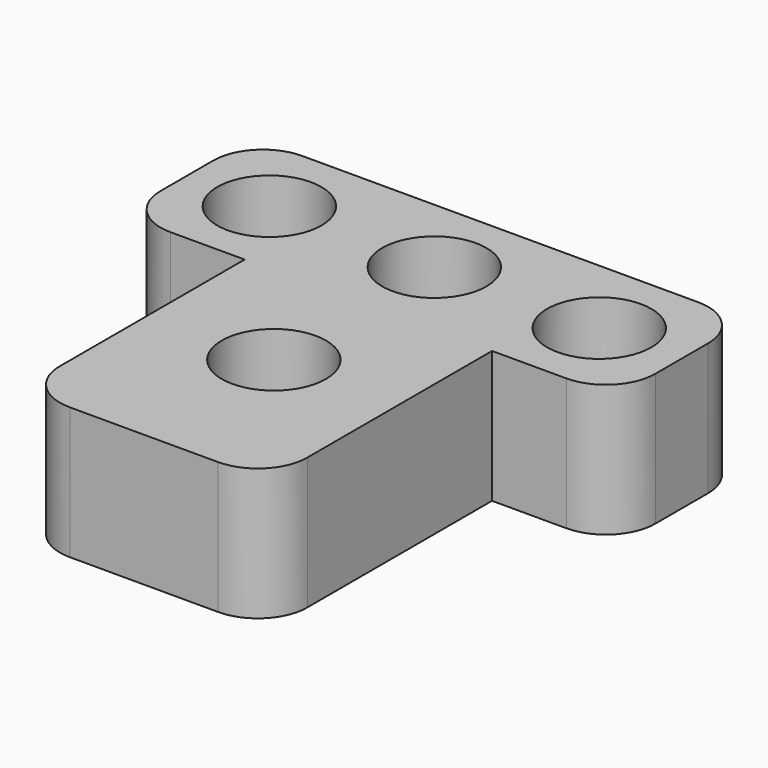
from build123d import *

# Parameters (mm, degrees)
F0_R     = 4.0132
F0_W     = 19.05
F0_H     = 21.59
F1_DEPTH = 10.16
F2_R     = 3.81


with BuildPart() as f1:
    # F0 (on Top) → F1 (new body)
    with BuildSketch(Plane.XY):
        Polygon((9.525, -6.35), (19.05, -6.35), (19.05, 6.35), (-19.05, 6.35), (-19.05, -6.35), (-9.525, -6.35), align=None)
        with Locations((-12.7, 0)):
            Circle(F0_R, mode=Mode.SUBTRACT)
        Circle(F0_R, mode=Mode.SUBTRACT)
        with Locations((12.7, 0)):
            Circle(F0_R, mode=Mode.SUBTRACT)
        with Locations((0, -17.145)):
            Rectangle(F0_W, F0_H)
        with Locations((0, -15.4432)):
            Circle(F0_R, mode=Mode.SUBTRACT)
    extrude(amount=F1_DEPTH)

    # F2
    f2_edges = [f1.edges().sort_by_distance(p)[0] for p in [
        (-9.525, -27.94, 5.08),
        (9.525, -27.94, 5.08),
        (19.05, -6.35, 5.08),
        (19.05, 6.35, 5.08),
        (-19.05, -6.35, 5.08),
        (-19.05, 6.35, 5.08),
    ]]
    fillet(f2_edges, radius=F2_R)


solid = f1.part
